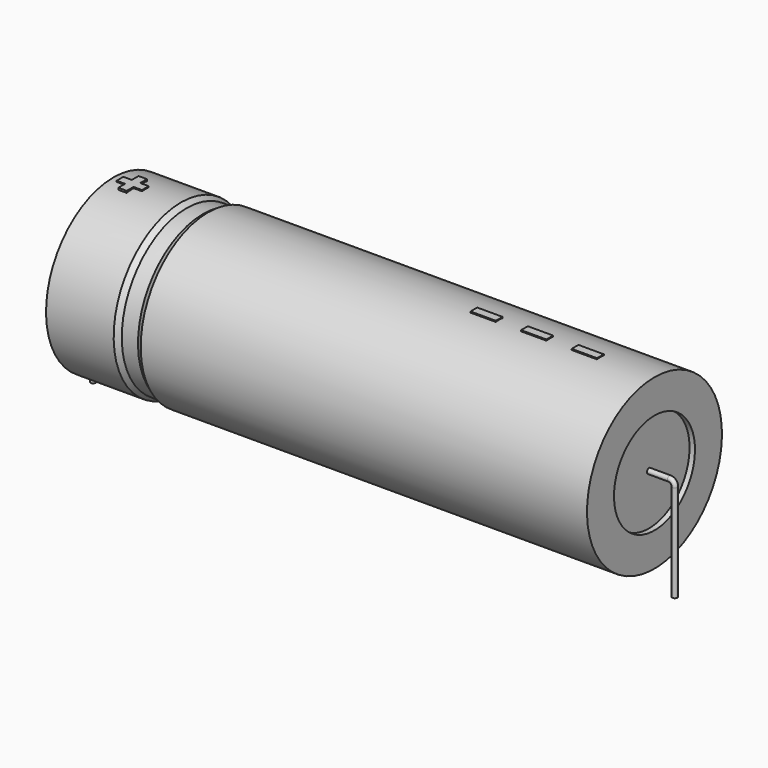
from build123d import *

# Parameters (mm, degrees)
SKETCH_R    = 0.45
SKETCH004_W = 4.35
SKETCH004_H = 1.45
PAD_DEPTH   = 14.645


with BuildPart() as sweep_body:
    # Sweep: sweep along a path in Sketch001
    with BuildLine(Plane.XZ) as sweep_path:
        Line((0, -3), (0, 13.7))
        ThreePointArc((0, 13.7), (0.263601, 14.336393), (0.899993, 14.6))
        Line((0.899993, 14.6), (99.1, 14.6))
        ThreePointArc((99.1, 14.6), (99.736396, 14.336396), (100, 13.7))
        Line((100, 13.7), (100, -3))
    # Sketch → Sweep (sweep)
    with BuildSketch(Plane.XY.offset(-2)):
        Circle(SKETCH_R)
    sweep(path=sweep_path.line)


with BuildPart() as revolution:
    # Sketch002 → Revolution (revolve)
    with BuildSketch(Plane.XZ):
        Polygon((3.5, 29.1), (3.5, 23.3), (96.5, 23.3), (96.5, 29.1), (19.775, 29.1), (18.845, 28.52), (16.055, 28.52), (15.125, 29.1), align=None)
    revolve(axis=Axis((6.97588, 0, 14.6), (1, 0, 0)))


with BuildPart() as revolution001:
    # Sketch003 → Revolution001 (revolve)
    with BuildSketch(Plane.XZ):
        Polygon((4.43, 28.52), (9.08, 28.52), (9.08, 16.05), (90.92, 16.05), (90.92, 28.52), (95.57, 28.52), (95.57, 14.6), (4.43, 14.6), align=None)
    revolve(axis=Axis((6.97588, 0, 14.6), (1, 0, 0)))


with BuildPart() as pad:
    # Sketch004 → Pad (new body)
    with BuildSketch(Plane.XY.offset(14.6)):
        with Locations((85.025, 0)):
            Rectangle(SKETCH004_W, SKETCH004_H)
        with Locations((76.325, 0)):
            Rectangle(SKETCH004_W, SKETCH004_H)
        with Locations((67.625, 0)):
            Rectangle(SKETCH004_W, SKETCH004_H)
        Polygon((6.066, 0.725), (4.616, 0.725), (4.616, -0.725), (6.066, -0.725), (6.066, -2.175), (7.516, -2.175), (7.516, -0.725), (8.966, -0.725), (8.966, 0.725), (7.516, 0.725), (7.516, 2.175), (6.066, 2.175), align=None)
    extrude(amount=PAD_DEPTH)


solid = Compound([sweep_body.part, revolution.part, revolution001.part, pad.part])
